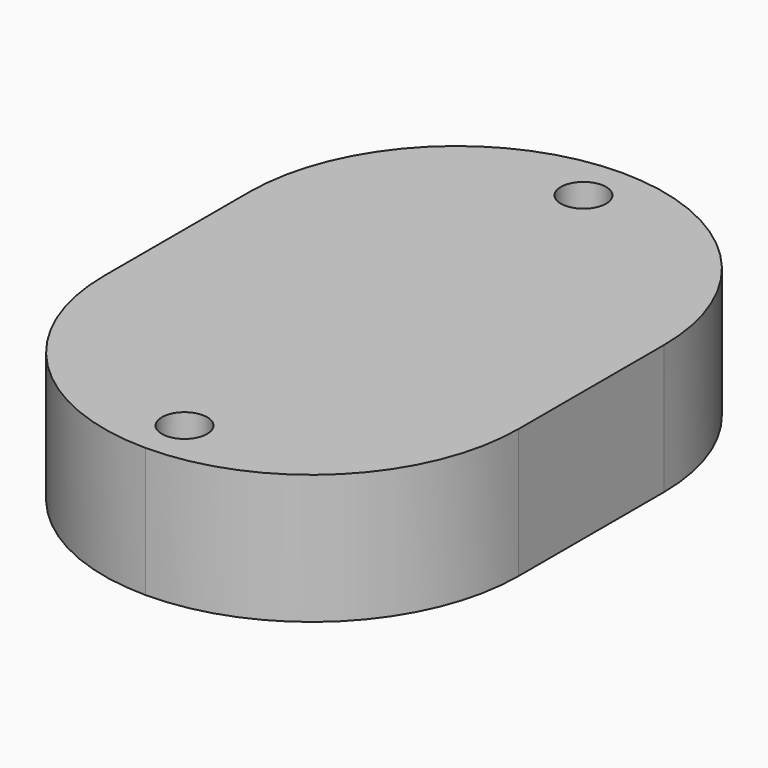
from build123d import *

# Parameters (mm, degrees)
F0_R     = 1.75
F1_DEPTH = 10


with BuildPart() as f1:
    # F0 (on Top) → F1 (new body)
    with BuildSketch(Plane.XY):
        with BuildLine():
            Line((16, -7), (16, 7))
            ThreePointArc((16, 7), (11.313708, 18.313708), (0, 23))
            ThreePointArc((0, 23), (-11.313708, 18.313708), (-16, 7))
            Line((-16, 7), (-16, -7))
            ThreePointArc((-16, -7), (-11.313708, -18.313708), (0, -23))
            ThreePointArc((0, -23), (11.313708, -18.313708), (16, -7))
        make_face()
        with Locations((0, -19.25)):
            Circle(F0_R, mode=Mode.SUBTRACT)
        with Locations((0, 19.25)):
            Circle(F0_R, mode=Mode.SUBTRACT)
    extrude(amount=F1_DEPTH)


solid = f1.part
